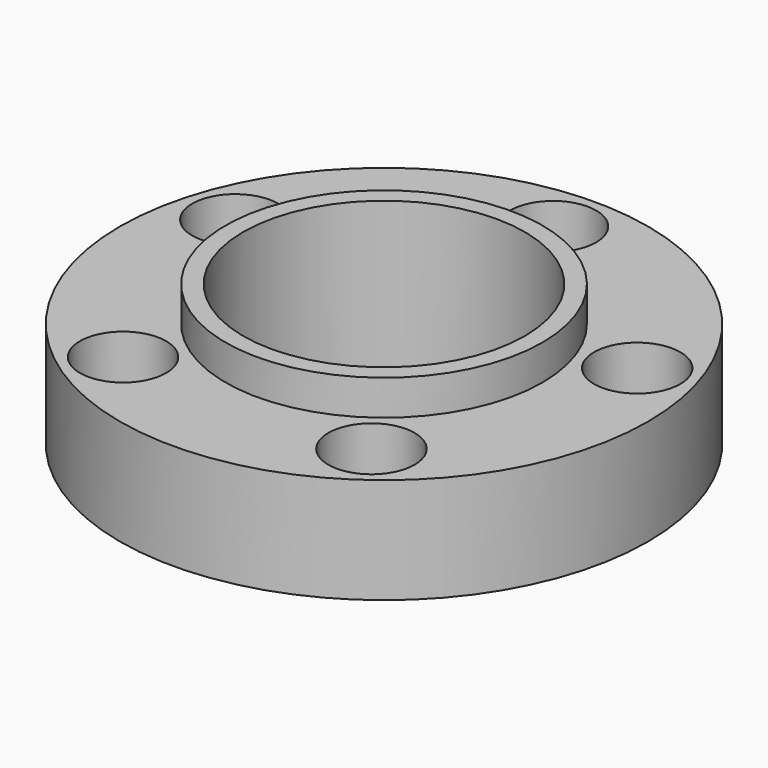
from build123d import *

# Parameters (mm, degrees)
F2_R     = 12.25
F3_DEPTH = 30


with BuildPart() as f1:
    # F0 (on Front) → F1 (revolve)
    with BuildSketch(Plane.XZ):
        Polygon((40, 43), (40, 0), (45, 0), (45, 3), (75, 3), (75, 33), (45, 33), (45, 43), align=None)
    revolve(axis=Axis((0, 0, 39.782755), (0, 0, 1)))

    # F2 (on face) → F3 (cut, through all)
    with BuildSketch(Plane.XY.offset(33)):
        with Locations((0, 60)):
            Circle(F2_R)
        with Locations((-57.063391, 18.54102)):
            Circle(F2_R)
        with Locations((-35.267115, -48.54102)):
            Circle(F2_R)
        with Locations((35.267115, -48.54102)):
            Circle(F2_R)
        with Locations((57.063391, 18.54102)):
            Circle(F2_R)
    extrude(amount=-F3_DEPTH, mode=Mode.SUBTRACT)


solid = f1.part
